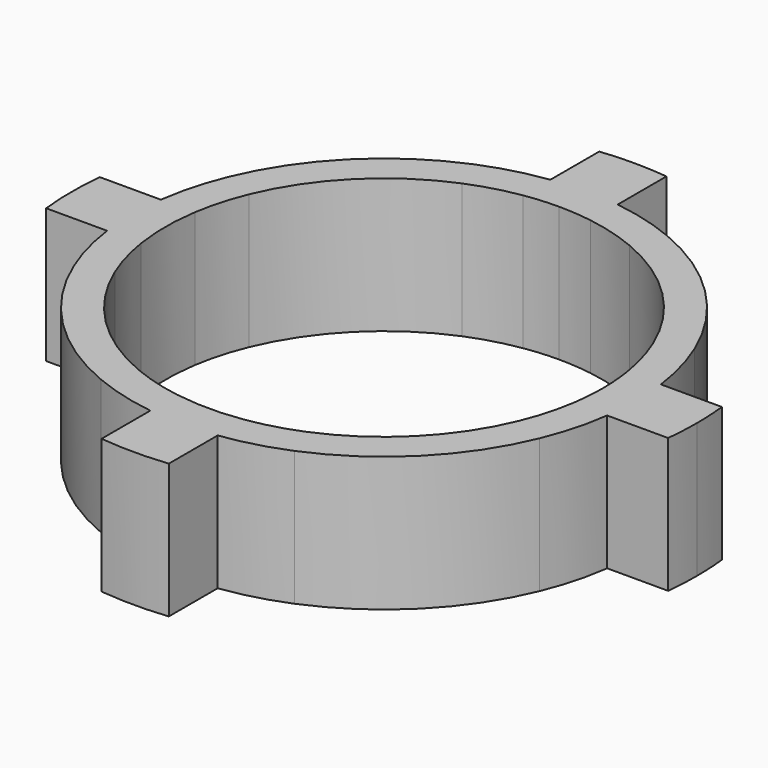
from build123d import *

# Parameters (mm, degrees)
F1_DEPTH = 2


with BuildPart() as f1:
    # F0 (on Top) → F1 (new body)
    with BuildSketch(Plane.XY):
        with BuildLine():
            ThreePointArc((0, 4.15), (0.2504565274, 4.1424354585), (0.5, 4.119769411))
            Line((0.5, 4.119769411), (0.5, 4.6230401253))
            ThreePointArc((0.5, 4.6230401253), (0.2503631537, 4.6432551396), (0, 4.65))
            Line((0, 4.65), (0, 4.15))
        make_face()
        with BuildLine():
            ThreePointArc((-0.5, 4.119769411), (-0.2504565274, 4.1424354585), (0, 4.15))
            Line((0, 4.15), (0, 4.65))
            ThreePointArc((0, 4.65), (-0.2503631537, 4.6432551396), (-0.5, 4.6230401253))
            Line((-0.5, 4.6230401253), (-0.5, 4.119769411))
        make_face()
        with BuildLine():
            ThreePointArc((-0.5, 3.7165171868), (-0.2505599224, 3.7416199333), (0, 3.75))
            Line((0, 3.75), (0, 4.15))
            ThreePointArc((0, 4.15), (-0.2504565274, 4.1424354585), (-0.5, 4.119769411))
            Line((-0.5, 4.119769411), (-0.5, 3.7165171868))
        make_face()
        with BuildLine():
            ThreePointArc((0, 3.75), (0.2505599224, 3.7416199333), (0.5, 3.7165171868))
            Line((0.5, 3.7165171868), (0.5, 4.119769411))
            ThreePointArc((0.5, 4.119769411), (0.2504565274, 4.1424354585), (0, 4.15))
            Line((0, 4.15), (0, 3.75))
        make_face()
        with BuildLine():
            ThreePointArc((0, 3.25), (0.2507474126, 3.2403125984), (0.5, 3.2113081447))
            Line((0.5, 3.2113081447), (0.5, 3.7165171868))
            ThreePointArc((0.5, 3.7165171868), (0.2505599224, 3.7416199333), (0, 3.75))
            Line((0, 3.75), (0, 3.25))
        make_face()
        with BuildLine():
            ThreePointArc((-0.5, 3.2113081447), (-0.2507474126, 3.2403125984), (0, 3.25))
            Line((0, 3.25), (0, 3.75))
            ThreePointArc((0, 3.75), (-0.2505599224, 3.7416199333), (-0.5, 3.7165171868))
            Line((-0.5, 3.7165171868), (-0.5, 3.2113081447))
        make_face()
        with BuildLine():
            ThreePointArc((-1.2454248934, 3.0019022028), (-0.8789708338, 3.128883231), (-0.5, 3.2113081447))
            Line((-0.5, 3.2113081447), (-0.5, 3.7165171868))
            ThreePointArc((-0.5, 3.7165171868), (-0.9767266714, 3.6205669459), (-1.4370287231, 3.4637333109))
            Line((-1.4370287231, 3.4637333109), (-1.2454248934, 3.0019022028))
        make_face()
        with BuildLine():
            ThreePointArc((0.5, 3.2113081447), (0.8789708338, 3.128883231), (1.2454248934, 3.0019022028))
            Line((1.2454248934, 3.0019022028), (1.4370287231, 3.4637333109))
            ThreePointArc((1.4370287231, 3.4637333109), (0.9767266714, 3.6205669459), (0.5, 3.7165171868))
            Line((0.5, 3.7165171868), (0.5, 3.2113081447))
        make_face()
        with BuildLine():
            ThreePointArc((1.2454248934, 3.0019022028), (2.2980970389, 2.2980970389), (3.0019022028, 1.2454248934))
            Line((3.0019022028, 1.2454248934), (3.4637333109, 1.4370287231))
            ThreePointArc((3.4637333109, 1.4370287231), (2.6516504294, 2.6516504294), (1.4370287231, 3.4637333109))
            Line((1.4370287231, 3.4637333109), (1.2454248934, 3.0019022028))
        make_face()
        with BuildLine():
            ThreePointArc((-3.0019022028, 1.2454248934), (-2.2980970389, 2.2980970389), (-1.2454248934, 3.0019022028))
            Line((-1.2454248934, 3.0019022028), (-1.4370287231, 3.4637333109))
            ThreePointArc((-1.4370287231, 3.4637333109), (-2.6516504294, 2.6516504294), (-3.4637333109, 1.4370287231))
            Line((-3.4637333109, 1.4370287231), (-3.0019022028, 1.2454248934))
        make_face()
        with BuildLine():
            ThreePointArc((-3.2113081447, 0.5), (-3.128883231, 0.8789708338), (-3.0019022028, 1.2454248934))
            Line((-3.0019022028, 1.2454248934), (-3.4637333109, 1.4370287231))
            ThreePointArc((-3.4637333109, 1.4370287231), (-3.6205669459, 0.9767266714), (-3.7165171868, 0.5))
            Line((-3.7165171868, 0.5), (-3.2113081447, 0.5))
        make_face()
        with BuildLine():
            ThreePointArc((-3.2113081447, -0.5), (-3.25, 0), (-3.2113081447, 0.5))
            Line((-3.2113081447, 0.5), (-3.7165171868, 0.5))
            ThreePointArc((-3.7165171868, 0.5), (-3.75, 0), (-3.7165171868, -0.5))
            Line((-3.7165171868, -0.5), (-3.2113081447, -0.5))
        make_face()
        with BuildLine():
            ThreePointArc((-3.0019022028, -1.2454248934), (-3.128883231, -0.8789708338), (-3.2113081447, -0.5))
            Line((-3.2113081447, -0.5), (-3.7165171868, -0.5))
            ThreePointArc((-3.7165171868, -0.5), (-3.6205669459, -0.9767266714), (-3.4637333109, -1.4370287231))
            Line((-3.4637333109, -1.4370287231), (-3.0019022028, -1.2454248934))
        make_face()
        with BuildLine():
            ThreePointArc((3.0019022028, 1.2454248934), (3.128883231, 0.8789708338), (3.2113081447, 0.5))
            Line((3.2113081447, 0.5), (3.7165171868, 0.5))
            ThreePointArc((3.7165171868, 0.5), (3.6205669459, 0.9767266714), (3.4637333109, 1.4370287231))
            Line((3.4637333109, 1.4370287231), (3.0019022028, 1.2454248934))
        make_face()
        with BuildLine():
            ThreePointArc((1.2454248934, 3.0019022028), (2.2980970389, 2.2980970389), (3.0019022028, 1.2454248934))
            Line((3.0019022028, 1.2454248934), (3.4637333109, 1.4370287231))
            ThreePointArc((3.4637333109, 1.4370287231), (2.6516504294, 2.6516504294), (1.4370287231, 3.4637333109))
            Line((1.4370287231, 3.4637333109), (1.2454248934, 3.0019022028))
        make_face()
        with BuildLine():
            ThreePointArc((0.5, 3.2113081447), (0.8789708338, 3.128883231), (1.2454248934, 3.0019022028))
            Line((1.2454248934, 3.0019022028), (1.4370287231, 3.4637333109))
            ThreePointArc((1.4370287231, 3.4637333109), (0.9767266714, 3.6205669459), (0.5, 3.7165171868))
            Line((0.5, 3.7165171868), (0.5, 3.2113081447))
        make_face()
        with BuildLine():
            ThreePointArc((0, 3.25), (0.2507474126, 3.2403125984), (0.5, 3.2113081447))
            Line((0.5, 3.2113081447), (0.5, 3.7165171868))
            ThreePointArc((0.5, 3.7165171868), (0.2505599224, 3.7416199333), (0, 3.75))
            Line((0, 3.75), (0, 3.25))
        make_face()
        with BuildLine():
            ThreePointArc((-0.5, 3.2113081447), (-0.2507474126, 3.2403125984), (0, 3.25))
            Line((0, 3.25), (0, 3.75))
            ThreePointArc((0, 3.75), (-0.2505599224, 3.7416199333), (-0.5, 3.7165171868))
            Line((-0.5, 3.7165171868), (-0.5, 3.2113081447))
        make_face()
        with BuildLine():
            ThreePointArc((-1.2454248934, 3.0019022028), (-0.8789708338, 3.128883231), (-0.5, 3.2113081447))
            Line((-0.5, 3.2113081447), (-0.5, 3.7165171868))
            ThreePointArc((-0.5, 3.7165171868), (-0.9767266714, 3.6205669459), (-1.4370287231, 3.4637333109))
            Line((-1.4370287231, 3.4637333109), (-1.2454248934, 3.0019022028))
        make_face()
        with BuildLine():
            ThreePointArc((-3.0019022028, 1.2454248934), (-2.2980970389, 2.2980970389), (-1.2454248934, 3.0019022028))
            Line((-1.2454248934, 3.0019022028), (-1.4370287231, 3.4637333109))
            ThreePointArc((-1.4370287231, 3.4637333109), (-2.6516504294, 2.6516504294), (-3.4637333109, 1.4370287231))
            Line((-3.4637333109, 1.4370287231), (-3.0019022028, 1.2454248934))
        make_face()
        with BuildLine():
            ThreePointArc((-3.2113081447, 0.5), (-3.128883231, 0.8789708338), (-3.0019022028, 1.2454248934))
            Line((-3.0019022028, 1.2454248934), (-3.4637333109, 1.4370287231))
            ThreePointArc((-3.4637333109, 1.4370287231), (-3.6205669459, 0.9767266714), (-3.7165171868, 0.5))
            Line((-3.7165171868, 0.5), (-3.2113081447, 0.5))
        make_face()
        with BuildLine():
            ThreePointArc((-3.2113081447, -0.5), (-3.25, 0), (-3.2113081447, 0.5))
            Line((-3.2113081447, 0.5), (-3.7165171868, 0.5))
            ThreePointArc((-3.7165171868, 0.5), (-3.75, 0), (-3.7165171868, -0.5))
            Line((-3.7165171868, -0.5), (-3.2113081447, -0.5))
        make_face()
        with BuildLine():
            ThreePointArc((-3.0019022028, -1.2454248934), (-3.128883231, -0.8789708338), (-3.2113081447, -0.5))
            Line((-3.2113081447, -0.5), (-3.7165171868, -0.5))
            ThreePointArc((-3.7165171868, -0.5), (-3.6205669459, -0.9767266714), (-3.4637333109, -1.4370287231))
            Line((-3.4637333109, -1.4370287231), (-3.0019022028, -1.2454248934))
        make_face()
        with BuildLine():
            Line((-1.4370287231, -3.4637333109), (-1.2454248934, -3.0019022028))
            ThreePointArc((-1.2454248934, -3.0019022028), (-2.2980970389, -2.2980970389), (-3.0019022028, -1.2454248934))
            Line((-3.0019022028, -1.2454248934), (-3.4637333109, -1.4370287231))
            ThreePointArc((-3.4637333109, -1.4370287231), (-2.6516504294, -2.6516504294), (-1.4370287231, -3.4637333109))
        make_face()
        with BuildLine():
            Line((-0.5, -3.7165171868), (-0.5, -3.2113081447))
            ThreePointArc((-0.5, -3.2113081447), (-0.8789708338, -3.128883231), (-1.2454248934, -3.0019022028))
            Line((-1.2454248934, -3.0019022028), (-1.4370287231, -3.4637333109))
            ThreePointArc((-1.4370287231, -3.4637333109), (-0.9767266714, -3.6205669459), (-0.5, -3.7165171868))
        make_face()
        with BuildLine():
            Line((0.5, -3.7165171868), (0.5, -3.2113081447))
            ThreePointArc((0.5, -3.2113081447), (0, -3.25), (-0.5, -3.2113081447))
            Line((-0.5, -3.2113081447), (-0.5, -3.7165171868))
            ThreePointArc((-0.5, -3.7165171868), (0, -3.75), (0.5, -3.7165171868))
        make_face()
        with BuildLine():
            Line((1.4370287231, -3.4637333109), (1.2454248934, -3.0019022028))
            ThreePointArc((1.2454248934, -3.0019022028), (0.8789708338, -3.128883231), (0.5, -3.2113081447))
            Line((0.5, -3.2113081447), (0.5, -3.7165171868))
            ThreePointArc((0.5, -3.7165171868), (0.9767266714, -3.6205669459), (1.4370287231, -3.4637333109))
        make_face()
        with BuildLine():
            Line((3.4637333109, -1.4370287231), (3.0019022028, -1.2454248934))
            ThreePointArc((3.0019022028, -1.2454248934), (2.2980970389, -2.2980970389), (1.2454248934, -3.0019022028))
            Line((1.2454248934, -3.0019022028), (1.4370287231, -3.4637333109))
            ThreePointArc((1.4370287231, -3.4637333109), (2.6516504294, -2.6516504294), (3.4637333109, -1.4370287231))
        make_face()
        with BuildLine():
            Line((3.7165171868, -0.5), (3.2113081447, -0.5))
            ThreePointArc((3.2113081447, -0.5), (3.128883231, -0.8789708338), (3.0019022028, -1.2454248934))
            Line((3.0019022028, -1.2454248934), (3.4637333109, -1.4370287231))
            ThreePointArc((3.4637333109, -1.4370287231), (3.6205669459, -0.9767266714), (3.7165171868, -0.5))
        make_face()
        with BuildLine():
            ThreePointArc((3.2113081447, 0.5), (3.2403125984, 0.2507474126), (3.25, 0))
            ThreePointArc((3.25, 0), (3.2403125984, -0.2507474126), (3.2113081447, -0.5))
            Line((3.2113081447, -0.5), (3.7165171868, -0.5))
            ThreePointArc((3.7165171868, -0.5), (3.7416199333, -0.2505599224), (3.75, 0))
            ThreePointArc((3.75, 0), (3.7416199333, 0.2505599224), (3.7165171868, 0.5))
            Line((3.7165171868, 0.5), (3.2113081447, 0.5))
        make_face()
        with BuildLine():
            Line((-0.5, -3.7165171868), (-0.5, -3.2113081447))
            ThreePointArc((-0.5, -3.2113081447), (-0.8789708338, -3.128883231), (-1.2454248934, -3.0019022028))
            Line((-1.2454248934, -3.0019022028), (-1.4370287231, -3.4637333109))
            ThreePointArc((-1.4370287231, -3.4637333109), (-0.9767266714, -3.6205669459), (-0.5, -3.7165171868))
        make_face()
        with BuildLine():
            Line((0.5, -3.7165171868), (0.5, -3.2113081447))
            ThreePointArc((0.5, -3.2113081447), (0, -3.25), (-0.5, -3.2113081447))
            Line((-0.5, -3.2113081447), (-0.5, -3.7165171868))
            ThreePointArc((-0.5, -3.7165171868), (0, -3.75), (0.5, -3.7165171868))
        make_face()
        with BuildLine():
            Line((1.4370287231, -3.4637333109), (1.2454248934, -3.0019022028))
            ThreePointArc((1.2454248934, -3.0019022028), (0.8789708338, -3.128883231), (0.5, -3.2113081447))
            Line((0.5, -3.2113081447), (0.5, -3.7165171868))
            ThreePointArc((0.5, -3.7165171868), (0.9767266714, -3.6205669459), (1.4370287231, -3.4637333109))
        make_face()
        with BuildLine():
            Line((3.4637333109, -1.4370287231), (3.0019022028, -1.2454248934))
            ThreePointArc((3.0019022028, -1.2454248934), (2.2980970389, -2.2980970389), (1.2454248934, -3.0019022028))
            Line((1.2454248934, -3.0019022028), (1.4370287231, -3.4637333109))
            ThreePointArc((1.4370287231, -3.4637333109), (2.6516504294, -2.6516504294), (3.4637333109, -1.4370287231))
        make_face()
        with BuildLine():
            Line((3.7165171868, -0.5), (3.2113081447, -0.5))
            ThreePointArc((3.2113081447, -0.5), (3.128883231, -0.8789708338), (3.0019022028, -1.2454248934))
            Line((3.0019022028, -1.2454248934), (3.4637333109, -1.4370287231))
            ThreePointArc((3.4637333109, -1.4370287231), (3.6205669459, -0.9767266714), (3.7165171868, -0.5))
        make_face()
        with BuildLine():
            ThreePointArc((3.2113081447, 0.5), (3.2403125984, 0.2507474126), (3.25, 0))
            ThreePointArc((3.25, 0), (3.2403125984, -0.2507474126), (3.2113081447, -0.5))
            Line((3.2113081447, -0.5), (3.7165171868, -0.5))
            ThreePointArc((3.7165171868, -0.5), (3.7416199333, -0.2505599224), (3.75, 0))
            ThreePointArc((3.75, 0), (3.7416199333, 0.2505599224), (3.7165171868, 0.5))
            Line((3.7165171868, 0.5), (3.2113081447, 0.5))
        make_face()
        with BuildLine():
            ThreePointArc((3.0019022028, 1.2454248934), (3.128883231, 0.8789708338), (3.2113081447, 0.5))
            Line((3.2113081447, 0.5), (3.7165171868, 0.5))
            ThreePointArc((3.7165171868, 0.5), (3.6205669459, 0.9767266714), (3.4637333109, 1.4370287231))
            Line((3.4637333109, 1.4370287231), (3.0019022028, 1.2454248934))
        make_face()
        with BuildLine():
            ThreePointArc((1.2454248934, 3.0019022028), (2.2980970389, 2.2980970389), (3.0019022028, 1.2454248934))
            Line((3.0019022028, 1.2454248934), (3.4637333109, 1.4370287231))
            ThreePointArc((3.4637333109, 1.4370287231), (2.6516504294, 2.6516504294), (1.4370287231, 3.4637333109))
            Line((1.4370287231, 3.4637333109), (1.2454248934, 3.0019022028))
        make_face()
        with BuildLine():
            ThreePointArc((0.5, 3.2113081447), (0.8789708338, 3.128883231), (1.2454248934, 3.0019022028))
            Line((1.2454248934, 3.0019022028), (1.4370287231, 3.4637333109))
            ThreePointArc((1.4370287231, 3.4637333109), (0.9767266714, 3.6205669459), (0.5, 3.7165171868))
            Line((0.5, 3.7165171868), (0.5, 3.2113081447))
        make_face()
        with BuildLine():
            ThreePointArc((0, 3.25), (0.2507474126, 3.2403125984), (0.5, 3.2113081447))
            Line((0.5, 3.2113081447), (0.5, 3.7165171868))
            ThreePointArc((0.5, 3.7165171868), (0.2505599224, 3.7416199333), (0, 3.75))
            Line((0, 3.75), (0, 3.25))
        make_face()
        with BuildLine():
            ThreePointArc((-0.5, 3.2113081447), (-0.2507474126, 3.2403125984), (0, 3.25))
            Line((0, 3.25), (0, 3.75))
            ThreePointArc((0, 3.75), (-0.2505599224, 3.7416199333), (-0.5, 3.7165171868))
            Line((-0.5, 3.7165171868), (-0.5, 3.2113081447))
        make_face()
        with BuildLine():
            ThreePointArc((-1.2454248934, 3.0019022028), (-0.8789708338, 3.128883231), (-0.5, 3.2113081447))
            Line((-0.5, 3.2113081447), (-0.5, 3.7165171868))
            ThreePointArc((-0.5, 3.7165171868), (-0.9767266714, 3.6205669459), (-1.4370287231, 3.4637333109))
            Line((-1.4370287231, 3.4637333109), (-1.2454248934, 3.0019022028))
        make_face()
        with BuildLine():
            ThreePointArc((-3.0019022028, 1.2454248934), (-2.2980970389, 2.2980970389), (-1.2454248934, 3.0019022028))
            Line((-1.2454248934, 3.0019022028), (-1.4370287231, 3.4637333109))
            ThreePointArc((-1.4370287231, 3.4637333109), (-2.6516504294, 2.6516504294), (-3.4637333109, 1.4370287231))
            Line((-3.4637333109, 1.4370287231), (-3.0019022028, 1.2454248934))
        make_face()
        with BuildLine():
            ThreePointArc((-3.2113081447, 0.5), (-3.128883231, 0.8789708338), (-3.0019022028, 1.2454248934))
            Line((-3.0019022028, 1.2454248934), (-3.4637333109, 1.4370287231))
            ThreePointArc((-3.4637333109, 1.4370287231), (-3.6205669459, 0.9767266714), (-3.7165171868, 0.5))
            Line((-3.7165171868, 0.5), (-3.2113081447, 0.5))
        make_face()
        with BuildLine():
            ThreePointArc((-3.2113081447, -0.5), (-3.25, 0), (-3.2113081447, 0.5))
            Line((-3.2113081447, 0.5), (-3.7165171868, 0.5))
            ThreePointArc((-3.7165171868, 0.5), (-3.75, 0), (-3.7165171868, -0.5))
            Line((-3.7165171868, -0.5), (-3.2113081447, -0.5))
        make_face()
        with BuildLine():
            ThreePointArc((-3.0019022028, -1.2454248934), (-3.128883231, -0.8789708338), (-3.2113081447, -0.5))
            Line((-3.2113081447, -0.5), (-3.7165171868, -0.5))
            ThreePointArc((-3.7165171868, -0.5), (-3.6205669459, -0.9767266714), (-3.4637333109, -1.4370287231))
            Line((-3.4637333109, -1.4370287231), (-3.0019022028, -1.2454248934))
        make_face()
        with BuildLine():
            Line((-1.4370287231, -3.4637333109), (-1.2454248934, -3.0019022028))
            ThreePointArc((-1.2454248934, -3.0019022028), (-2.2980970389, -2.2980970389), (-3.0019022028, -1.2454248934))
            Line((-3.0019022028, -1.2454248934), (-3.4637333109, -1.4370287231))
            ThreePointArc((-3.4637333109, -1.4370287231), (-2.6516504294, -2.6516504294), (-1.4370287231, -3.4637333109))
        make_face()
        with BuildLine():
            Line((-0.5, -3.7165171868), (-0.5, -3.2113081447))
            ThreePointArc((-0.5, -3.2113081447), (-0.8789708338, -3.128883231), (-1.2454248934, -3.0019022028))
            Line((-1.2454248934, -3.0019022028), (-1.4370287231, -3.4637333109))
            ThreePointArc((-1.4370287231, -3.4637333109), (-0.9767266714, -3.6205669459), (-0.5, -3.7165171868))
        make_face()
        with BuildLine():
            Line((0.5, -3.7165171868), (0.5, -3.2113081447))
            ThreePointArc((0.5, -3.2113081447), (0, -3.25), (-0.5, -3.2113081447))
            Line((-0.5, -3.2113081447), (-0.5, -3.7165171868))
            ThreePointArc((-0.5, -3.7165171868), (0, -3.75), (0.5, -3.7165171868))
        make_face()
        with BuildLine():
            Line((1.4370287231, -3.4637333109), (1.2454248934, -3.0019022028))
            ThreePointArc((1.2454248934, -3.0019022028), (0.8789708338, -3.128883231), (0.5, -3.2113081447))
            Line((0.5, -3.2113081447), (0.5, -3.7165171868))
            ThreePointArc((0.5, -3.7165171868), (0.9767266714, -3.6205669459), (1.4370287231, -3.4637333109))
        make_face()
        with BuildLine():
            Line((3.4637333109, -1.4370287231), (3.0019022028, -1.2454248934))
            ThreePointArc((3.0019022028, -1.2454248934), (2.2980970389, -2.2980970389), (1.2454248934, -3.0019022028))
            Line((1.2454248934, -3.0019022028), (1.4370287231, -3.4637333109))
            ThreePointArc((1.4370287231, -3.4637333109), (2.6516504294, -2.6516504294), (3.4637333109, -1.4370287231))
        make_face()
        with BuildLine():
            Line((3.7165171868, -0.5), (3.2113081447, -0.5))
            ThreePointArc((3.2113081447, -0.5), (3.128883231, -0.8789708338), (3.0019022028, -1.2454248934))
            Line((3.0019022028, -1.2454248934), (3.4637333109, -1.4370287231))
            ThreePointArc((3.4637333109, -1.4370287231), (3.6205669459, -0.9767266714), (3.7165171868, -0.5))
        make_face()
        with BuildLine():
            ThreePointArc((3.2113081447, 0.5), (3.2403125984, 0.2507474126), (3.25, 0))
            ThreePointArc((3.25, 0), (3.2403125984, -0.2507474126), (3.2113081447, -0.5))
            Line((3.2113081447, -0.5), (3.7165171868, -0.5))
            ThreePointArc((3.7165171868, -0.5), (3.7416199333, -0.2505599224), (3.75, 0))
            ThreePointArc((3.75, 0), (3.7416199333, 0.2505599224), (3.7165171868, 0.5))
            Line((3.7165171868, 0.5), (3.2113081447, 0.5))
        make_face()
        with BuildLine():
            Line((4.119769411, 0.5), (3.7165171868, 0.5))
            ThreePointArc((3.7165171868, 0.5), (3.7416199333, 0.2505599224), (3.75, 0))
            ThreePointArc((3.75, 0), (3.7416199333, -0.2505599224), (3.7165171868, -0.5))
            Line((3.7165171868, -0.5), (4.119769411, -0.5))
            ThreePointArc((4.119769411, -0.5), (4.1424354585, -0.2504565274), (4.15, 0))
            ThreePointArc((4.15, 0), (4.1424354585, 0.2504565274), (4.119769411, 0.5))
        make_face()
        with BuildLine():
            ThreePointArc((-3.7165171868, -0.5), (-3.75, 0), (-3.7165171868, 0.5))
            Line((-3.7165171868, 0.5), (-4.119769411, 0.5))
            ThreePointArc((-4.119769411, 0.5), (-4.15, 0), (-4.119769411, -0.5))
            Line((-4.119769411, -0.5), (-3.7165171868, -0.5))
        make_face()
        with BuildLine():
            Line((0.5, -4.119769411), (0.5, -3.7165171868))
            ThreePointArc((0.5, -3.7165171868), (0, -3.75), (-0.5, -3.7165171868))
            Line((-0.5, -3.7165171868), (-0.5, -4.119769411))
            ThreePointArc((-0.5, -4.119769411), (0, -4.15), (0.5, -4.119769411))
        make_face()
        with BuildLine():
            Line((4.6230401253, 0.5), (4.119769411, 0.5))
            ThreePointArc((4.119769411, 0.5), (4.1424354585, 0.2504565274), (4.15, 0))
            ThreePointArc((4.15, 0), (4.1424354585, -0.2504565274), (4.119769411, -0.5))
            Line((4.119769411, -0.5), (4.6230401253, -0.5))
            ThreePointArc((4.6230401253, -0.5), (4.6432551396, -0.2503631537), (4.65, 0))
            ThreePointArc((4.65, 0), (4.6432551396, 0.2503631537), (4.6230401253, 0.5))
        make_face()
        with BuildLine():
            ThreePointArc((-4.119769411, -0.5), (-4.15, 0), (-4.119769411, 0.5))
            Line((-4.119769411, 0.5), (-4.6230401253, 0.5))
            ThreePointArc((-4.6230401253, 0.5), (-4.65, 0), (-4.6230401253, -0.5))
            Line((-4.6230401253, -0.5), (-4.119769411, -0.5))
        make_face()
        with BuildLine():
            Line((0.5, -4.6230401253), (0.5, -4.119769411))
            ThreePointArc((0.5, -4.119769411), (0, -4.15), (-0.5, -4.119769411))
            Line((-0.5, -4.119769411), (-0.5, -4.6230401253))
            ThreePointArc((-0.5, -4.6230401253), (0, -4.65), (0.5, -4.6230401253))
        make_face()
    extrude(amount=F1_DEPTH)


solid = f1.part
